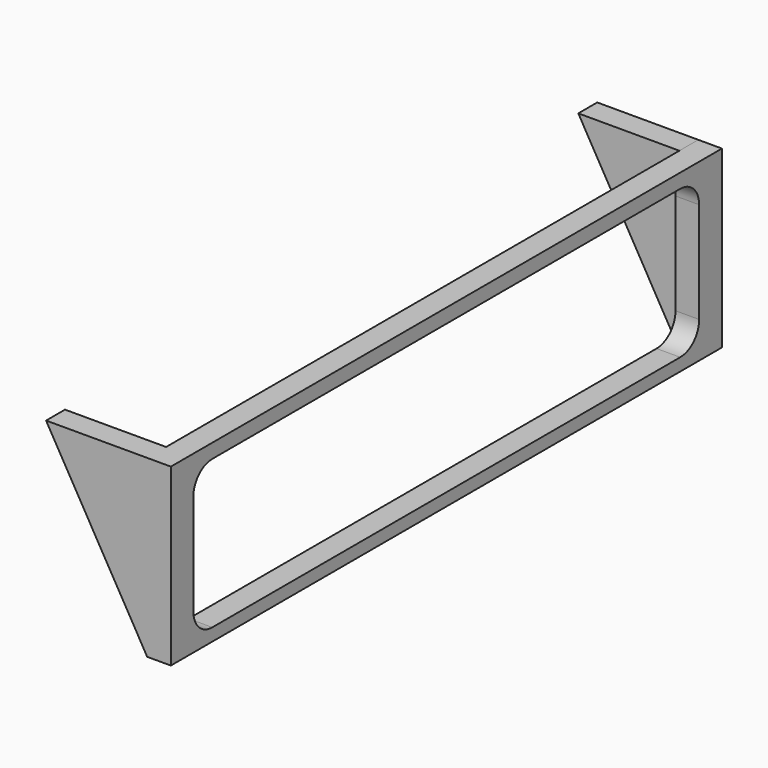
from build123d import *

# Parameters (mm, degrees)
F0_W     = 2.142924
F0_H     = 22.22561
F1_DEPTH = 3
F3_DEPTH = 3
F5_DEPTH = 3


with BuildPart() as f1:
    # F0 (on Right) → F1 (new body)
    with BuildSketch(Plane.YZ):
        Polygon((-41.607222, 6.203198), (-41.607222, -6.416802), (-41.607222, -11.112805), (41.562778, -11.112805), (41.562778, 11.112805), (-41.607222, 11.112805), align=None)
        with BuildLine():
            ThreePointArc((-40.136308, 6.302186), (-39.257629, 8.423506), (-37.136308, 9.302186))
            Line((-37.136308, 9.302186), (37.091864, 9.302186))
            ThreePointArc((37.091864, 9.302186), (39.213184, 8.423506), (40.091864, 6.302186))
            Line((40.091864, 6.302186), (40.091864, -6.51579))
            ThreePointArc((40.091864, -6.51579), (39.213184, -8.63711), (37.091864, -9.51579))
            Line((37.091864, -9.51579), (-37.136308, -9.51579))
            ThreePointArc((-37.136308, -9.51579), (-39.257629, -8.63711), (-40.136308, -6.51579))
            Line((-40.136308, -6.51579), (-40.136308, 6.302186))
        make_face(mode=Mode.SUBTRACT)
        Polygon((-41.607222, -11.112805), (-41.607222, -6.416802), (-41.607222, 6.203198), (-41.607222, 11.112805), (-43.705702, 11.112805), (-43.705702, -11.112805), align=None)
        with Locations((42.63424, 0)):
            Rectangle(F0_W, F0_H)
    extrude(amount=F1_DEPTH)

    # F2 (on face) → F3 (join)
    with BuildSketch(Plane.XZ.offset(43.705702)):
        Polygon((0, -11.112805), (0, 11.112805), (-12.831961, 11.112805), align=None)
    extrude(amount=-F3_DEPTH)

    # F4 (on face) → F5 (join)
    with BuildSketch(Plane(origin=(0, 43.705702, 0), x_dir=(-1, 0, 0), z_dir=(0, 1, 0))):
        Polygon((12.824409, 11.117161), (0, 11.112805), (0, -11.112805), align=None)
    extrude(amount=-F5_DEPTH)


solid = f1.part
